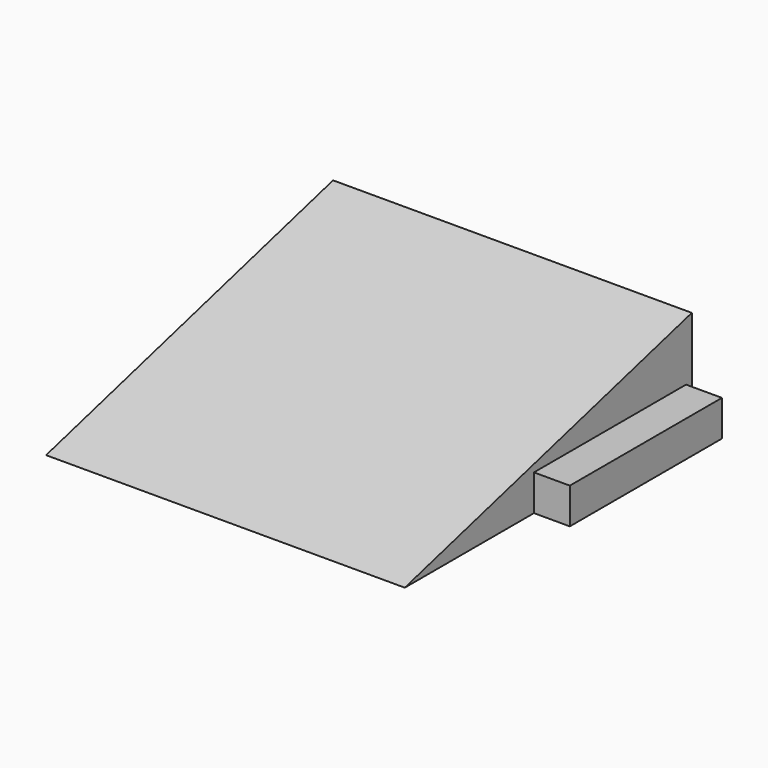
from build123d import *

# Parameters (mm, degrees)
F1_DEPTH = 127
F2_W     = 67.31
F2_H     = 12.7
F3_DEPTH = 12.7
F5_DEPTH = 12.7


with BuildPart() as f1:
    # F0 (on Right) → F1 (new body)
    with BuildSketch(Plane.YZ):
        Polygon((63.5, 34.029547), (-63.5, 0), (63.5, 0), align=None)
    extrude(amount=F1_DEPTH)

    # F2 (on face) → F3 (join)
    with BuildSketch(Plane.YZ.offset(127)):
        with Locations((27.305, 6.35)):
            Rectangle(F2_W, F2_H)
    extrude(amount=F3_DEPTH)

    # F4 (on face) → F5 (cut)
    with BuildSketch(Plane(origin=(0, 63.5, 0), x_dir=(-1, 0, 0), z_dir=(0, 1, 0))):
        with BuildLine():
            ThreePointArc((-101.6, 23.364774), (-107.95, 17.014774), (-101.6, 10.664774))
            Line((-101.6, 10.664774), (-25.4, 10.664774))
            ThreePointArc((-25.4, 10.664774), (-19.05, 17.014774), (-25.4, 23.364774))
            Line((-25.4, 23.364774), (-101.6, 23.364774))
        make_face()
    extrude(amount=-F5_DEPTH, mode=Mode.SUBTRACT)


solid = f1.part
